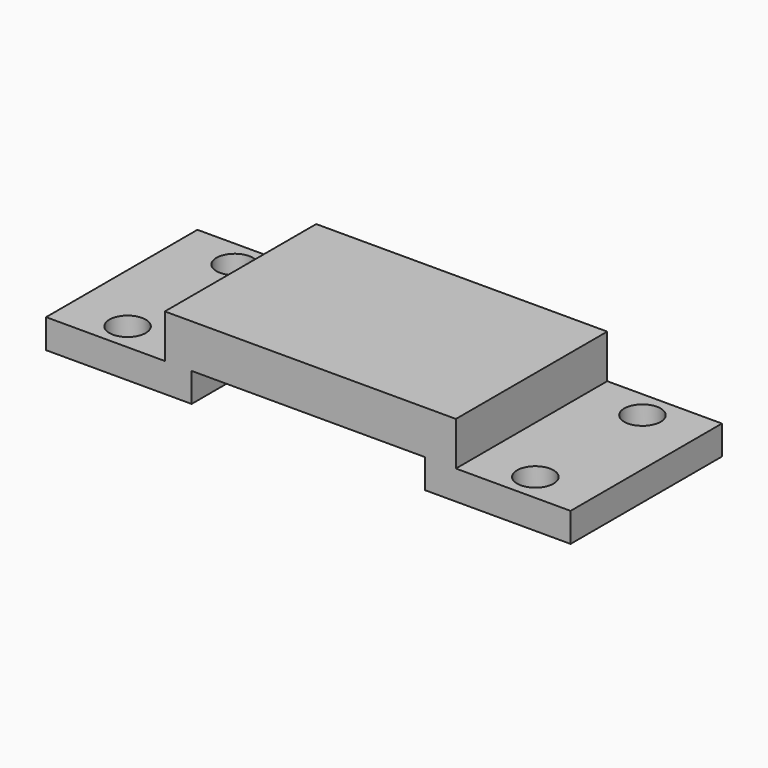
from build123d import *

# Parameters (mm, degrees)
F1_DEPTH = 33.02
F2_R     = 3.175
F3_DEPTH = 25.4
F4_R     = 3.175
F5_DEPTH = 25.4


with BuildPart() as f1:
    # F0 (on Front) → F1 (new body)
    with BuildSketch(Plane.XZ):
        Polygon((30.158872, 9.877618), (-20.641128, 9.877618), (-20.641128, 2.257618), (-41.369699, 2.257618), (-41.369699, -2.822382), (-15.969699, -2.822382), (-15.969699, 2.257618), (24.7747, 2.257618), (24.7747, -2.822382), (50.1747, -2.822382), (50.1747, 2.257618), (30.158872, 2.257618), align=None)
    extrude(amount=F1_DEPTH)

    # F2 (on face) → F3 (cut)
    with BuildSketch(Plane.XY.offset(2.257618)):
        with Locations((-31.005413, -28.194)):
            Circle(F2_R)
        with Locations((-31.005413, -4.826)):
            Circle(F2_R)
    extrude(amount=-F3_DEPTH, mode=Mode.SUBTRACT)

    # F4 (on face) → F5 (cut)
    with BuildSketch(Plane.XY.offset(2.257618)):
        with Locations((40.166786, -4.826)):
            Circle(F4_R)
        with Locations((40.166786, -28.194)):
            Circle(F4_R)
    extrude(amount=-F5_DEPTH, mode=Mode.SUBTRACT)


solid = f1.part
